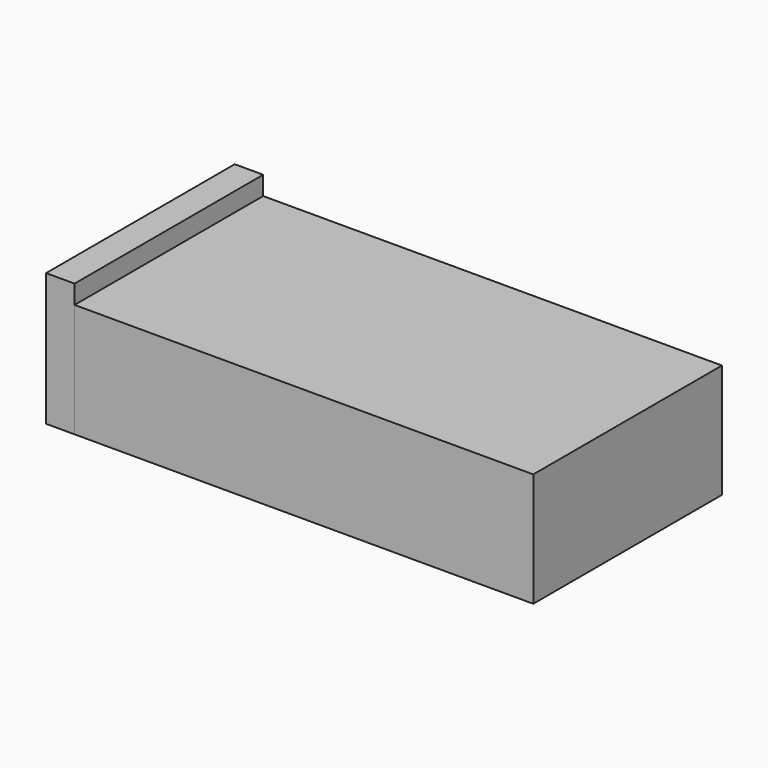
from build123d import *

# Parameters (mm, degrees)
F0_W     = 102.267437
F0_H     = 52.571155
F1_DEPTH = 25.4
F3_DEPTH = 6.35


with BuildPart() as f1:
    # F0 (on Top) → F1 (new body)
    with BuildSketch(Plane.XY):
        with Locations((-51.133719, -26.285577)):
            Rectangle(F0_W, F0_H)
    extrude(amount=F1_DEPTH)

    # F2 (on face) → F3 (join)
    with BuildSketch(Plane(origin=(-102.267437, 0, 0), x_dir=(0, -1, 0), z_dir=(-1, 0, 0))):
        Polygon((0, 29.584754), (0, 0), (18.654425, 0), (52.571155, 0), (52.571155, 29.584754), align=None)
    extrude(amount=F3_DEPTH)


solid = f1.part
